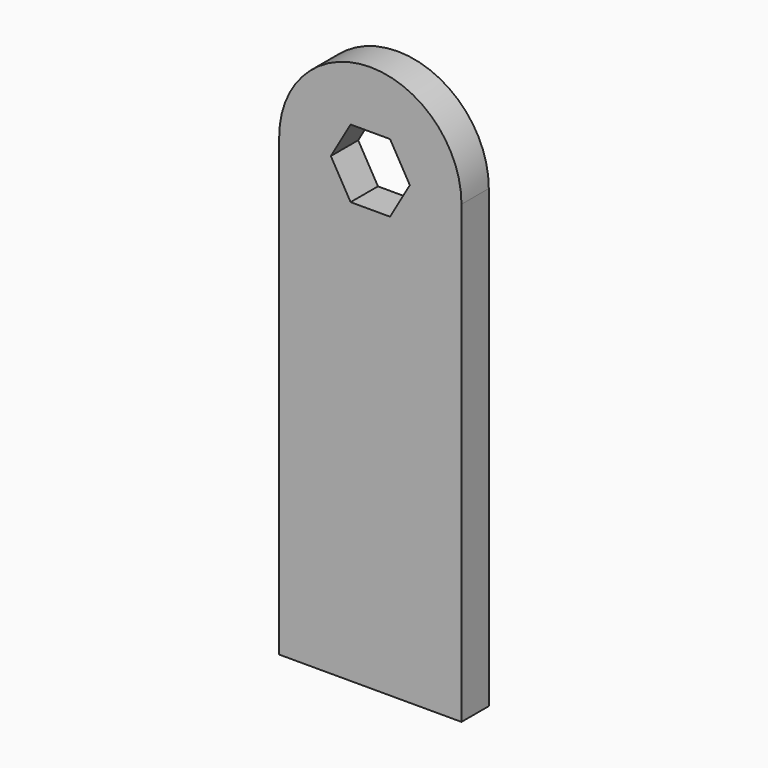
from build123d import *

# Parameters (mm, degrees)
F1_DEPTH = 4.7625


with BuildPart() as f1:
    # F0 (on Front) → F1 (new body)
    with BuildSketch(Plane.XZ):
        with BuildLine():
            Line((0, 63.5), (0, 0))
            Line((0, 0), (25.4, 0))
            Line((25.4, 0), (25.4, 63.5))
            ThreePointArc((25.4, 63.5), (12.7, 76.2), (0, 63.5))
        make_face()
        Polygon((7.200739, 63.5), (9.950369, 68.2625), (15.449631, 68.2625), (18.199261, 63.5), (15.449631, 58.7375), (9.950369, 58.7375), align=None, mode=Mode.SUBTRACT)
    extrude(amount=F1_DEPTH)


solid = f1.part
